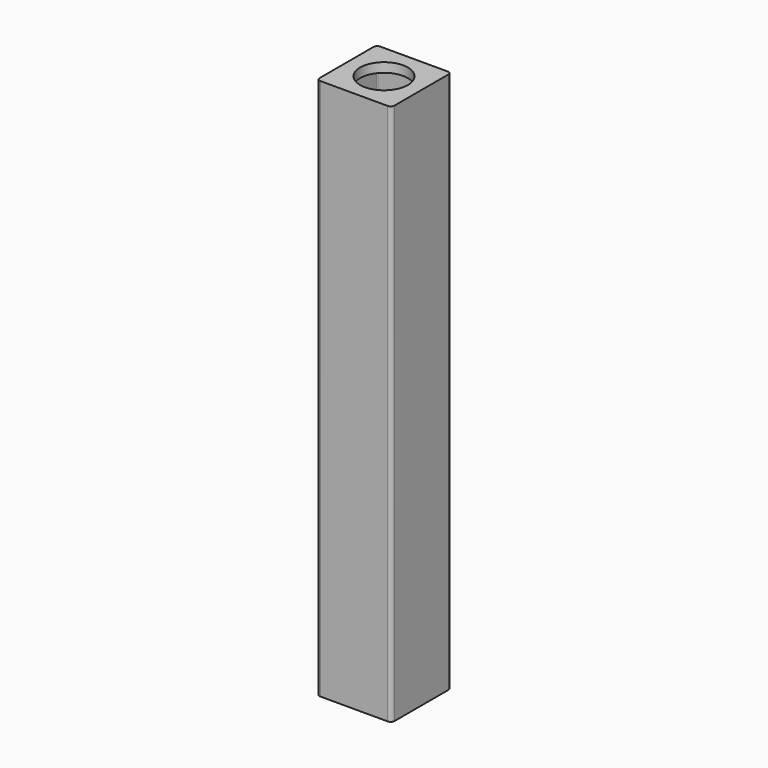
from build123d import *

# Parameters (mm, degrees)
F1_DEPTH = 580
F0_R     = 25.5
F2_DEPTH = 10


with BuildPart() as f1:
    # F0 (on Top) → F1 (new body)
    with BuildSketch(Plane.XY):
        with BuildLine():
            ThreePointArc((40, 36), (38.828427, 38.828427), (36, 40))
            Line((36, 40), (-36, 40))
            ThreePointArc((-36, 40), (-38.828427, 38.828427), (-40, 36))
            Line((-40, 36), (-40, -36))
            ThreePointArc((-40, -36), (-38.828427, -38.828427), (-36, -40))
            Line((-36, -40), (36, -40))
            ThreePointArc((36, -40), (38.828427, -38.828427), (40, -36))
            Line((40, -36), (40, 36))
        make_face()
        with BuildLine():
            ThreePointArc((-37, 36), (-36.707107, 36.707107), (-36, 37))
            Line((-36, 37), (36, 37))
            ThreePointArc((36, 37), (36.707107, 36.707107), (37, 36))
            Line((37, 36), (37, -36))
            ThreePointArc((37, -36), (36.707107, -36.707107), (36, -37))
            Line((36, -37), (-36, -37))
            ThreePointArc((-36, -37), (-36.707107, -36.707107), (-37, -36))
            Line((-37, -36), (-37, 36))
        make_face(mode=Mode.SUBTRACT)
    extrude(amount=-F1_DEPTH)

    # F0 (on Top) → F2 (join)
    with BuildSketch(Plane.XY):
        with BuildLine():
            Line((36, 37), (-36, 37))
            ThreePointArc((-36, 37), (-36.707107, 36.707107), (-37, 36))
            Line((-37, 36), (-37, -36))
            ThreePointArc((-37, -36), (-36.707107, -36.707107), (-36, -37))
            Line((-36, -37), (36, -37))
            ThreePointArc((36, -37), (36.707107, -36.707107), (37, -36))
            Line((37, -36), (37, 36))
            ThreePointArc((37, 36), (36.707107, 36.707107), (36, 37))
        make_face()
        Circle(F0_R, mode=Mode.SUBTRACT)
    extrude(amount=-F2_DEPTH)


solid = f1.part
